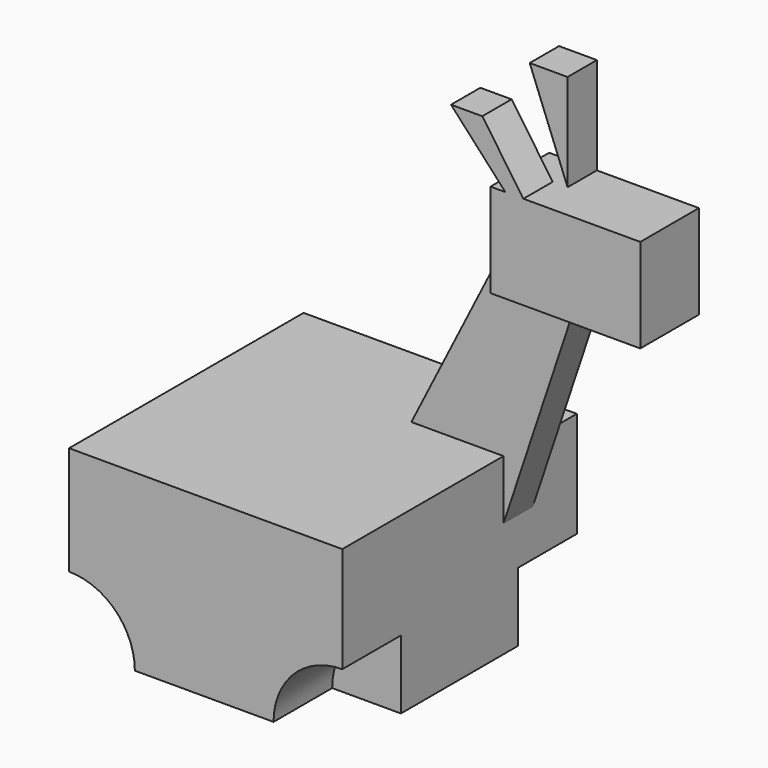
from build123d import *

# Parameters (mm, degrees)
F1_DEPTH = 12.7
F2_DEPTH = 3.175
F3_DEPTH = 6.35
F4_DEPTH = 6.35
F5_DEPTH = 6.35
F6_DEPTH = 25.4


with BuildPart() as f1:
    # F0 (on Front) → F1 (new body, symmetric)
    with BuildSketch(Plane.XZ):
        with BuildLine():
            Line((0, -11.5522462875), (-31.3764698803, -11.5522462875))
            Line((-31.3764698803, -11.5522462875), (-31.3764698803, -30.3869788403))
            ThreePointArc((-31.3764698803, -30.3869788403), (-23.3149039278, -33.7261887918), (-19.9756939763, -41.7877547443))
            Line((-19.9756939763, -41.7877547443), (4.0580634455, -41.7877547443))
            ThreePointArc((4.0580634455, -41.7877547443), (7.5480071851, -33.3622852363), (15.973476693, -29.8723414968))
            Line((15.973476693, -29.8723414968), (15.973476693, -21.820910275))
            Line((15.973476693, -21.820910275), (15.973476693, -11.5522462875))
            Line((15.973476693, -11.5522462875), (0, -11.5522462875))
        make_face()
    extrude(amount=F1_DEPTH, both=True)

    # F0 (on Front) → F2 (join, symmetric)
    with BuildSketch(Plane.XZ):
        Polygon((16.2587165833, 20.6799469888), (0, -11.5522462875), (15.973476693, -11.5522462875), (15.973476693, -21.820910275), align=None)
        Polygon((16.2587165833, 14.6898925304), (16.2587165833, 20.6799469888), (15.973476693, -21.820910275), (27.9535800219, 14.11941275), (26.9366379736, 14.6898925304), align=None)
    extrude(amount=F2_DEPTH, both=True)

    # F0 (on Front) → F3 (join, symmetric)
    with BuildSketch(Plane.XZ):
        Polygon((16.2587165833, 30.9486091137), (16.2587165833, 20.6799469888), (26.9366379736, 14.6898925304), (42.2156155109, 14.6898925304), (42.2156155109, 30.9486091137), (24.5306938887, 30.9486091137), (21.9635292888, 30.9486091137), (18.8258830458, 30.9486091137), align=None)
        Polygon((26.9366379736, 14.6898925304), (16.2587165833, 20.6799469888), (16.2587165833, 14.6898925304), align=None)
    extrude(amount=F3_DEPTH, both=True)

    # F0 (on Front) → F4 (join, through all)
    with BuildSketch(Plane.XZ):
        Polygon((9.4129433855, 41.2172712386), (18.8258830458, 30.9486091137), (21.9635292888, 30.9486091137), (14.8325143382, 41.2172712386), align=None)
    extrude(amount=F4_DEPTH)

    # F0 (on Front) + F1_face (on face) → F6 (join)
    with BuildSketch(Plane.XZ):
        with BuildLine():
            ThreePointArc((15.973476693, -29.8723414968), (7.5480071851, -33.3622852363), (4.0580634455, -41.7877547443))
            Line((4.0580634455, -41.7877547443), (15.973476693, -41.7877547443))
            Line((15.973476693, -41.7877547443), (15.973476693, -29.8723414968))
        make_face()
        with BuildLine():
            ThreePointArc((-19.9756939763, -41.7877547443), (-23.3149039278, -33.7261887918), (-31.3764698803, -30.3869788403))
            Line((-31.3764698803, -30.3869788403), (-31.3764698803, -41.7877547443))
            Line((-31.3764698803, -41.7877547443), (-19.9756939763, -41.7877547443))
        make_face()
    with BuildSketch(Plane(origin=(-7.8272407541, -12.7, -24.8874984342), x_dir=(1, 0, 0), z_dir=(0, -1, 0))):
        with BuildLine():
            Line((23.8007174471, 13.3352521467), (-23.5492291262, 13.3352521467))
            Line((-23.5492291262, 13.3352521467), (-23.5492291262, -5.4994804061))
            ThreePointArc((-23.5492291262, -5.4994804061), (-15.4876631737, -8.8386903576), (-12.1484532222, -16.9002563101))
            Line((-12.1484532222, -16.9002563101), (11.8853041996, -16.9002563101))
            ThreePointArc((11.8853041996, -16.9002563101), (15.3752479392, -8.4747868021), (23.8007174471, -4.9848430626))
            Line((23.8007174471, -4.9848430626), (23.8007174471, 13.3352521467))
        make_face()
    extrude(amount=F6_DEPTH)


with BuildPart() as f5:
    # F0 (on Front) → F5 (new body, through all)
    with BuildSketch(Plane.XZ):
        Polygon((17.9701596498, 47.7778092027), (24.5306938887, 30.9486091137), (24.5306938887, 47.7778092027), align=None)
    extrude(amount=-F5_DEPTH)


solid = Compound([f1.part, f5.part])
